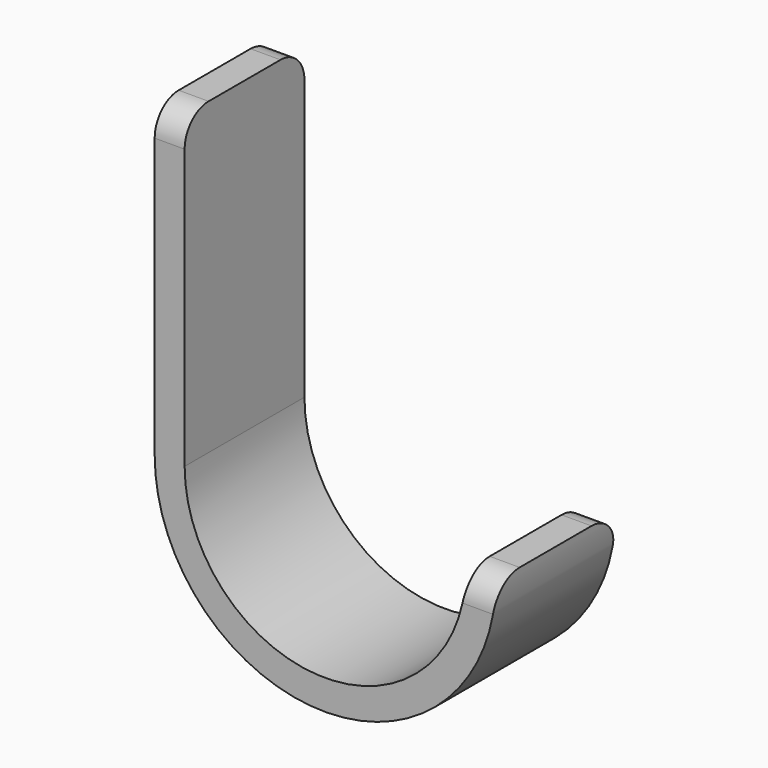
from build123d import *

# Parameters (mm, degrees)
F1_DEPTH = 25
F2_R     = 5


with BuildPart() as f1:
    # F0 (on Front) → F1 (new body)
    with BuildSketch(Plane.XZ):
        with BuildLine():
            Line((0, -51.609781), (0, 0))
            Line((0, 0), (-5, 0))
            Line((-5, 0), (-5, -51.609781))
            ThreePointArc((-5, -51.609781), (23.458993, -80.068774), (51.917986, -51.609781))
            Line((51.917986, -51.609781), (46.917986, -51.609781))
            ThreePointArc((46.917986, -51.609781), (23.458993, -75.068774), (0, -51.609781))
        make_face()
    extrude(amount=F1_DEPTH)

    # F2
    f2_edges = [f1.edges().sort_by_distance(p)[0] for p in [
        (49.417986, -25, -51.609781),
        (49.417986, 0, -51.609781),
        (-2.5, 0, 0),
        (-2.5, -25, 0),
    ]]
    fillet(f2_edges, radius=F2_R)


solid = f1.part
